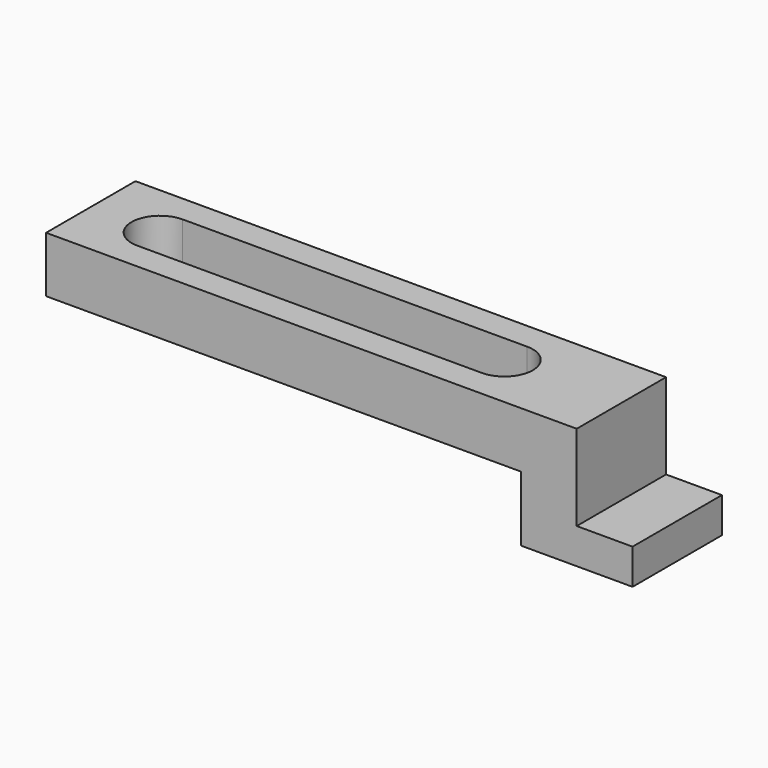
from build123d import *

# Parameters (mm, degrees)
SKETCH_W     = 57
SKETCH_H     = 12
PAD_DEPTH    = 6
BOX_W        = 12
BOX_H        = 12
BOX_DEPTH    = 7
BOX001_W     = 12
BOX001_H     = 6
BOX001_DEPTH = 3.2


with BuildPart() as part:
    # Sketch → Pad (new body)
    with BuildSketch(Plane.XY):
        with Locations((28.5, 6)):
            Rectangle(SKETCH_W, SKETCH_H)
        with BuildLine():
            Line((44.436229, 9.05), (7.436229, 9.05))
            ThreePointArc((7.436229, 9.05), (4.386229, 6), (7.436229, 2.95))
            Line((7.436229, 2.95), (44.436229, 2.95))
            ThreePointArc((44.436229, 2.95), (47.486229, 6), (44.436229, 9.05))
        make_face(mode=Mode.SUBTRACT)
    extrude(amount=PAD_DEPTH)

    # Box → Box (join)
    with BuildSketch(Plane(origin=(51, 0, 0), x_dir=(0, 1, 0), z_dir=(0, 0, -1))):
        with Locations((6, 6)):
            Rectangle(BOX_W, BOX_H)
    extrude(amount=BOX_DEPTH)

    # Box001 → Box001 (cut)
    with BuildSketch(Plane(origin=(57, 0, 0), x_dir=(0, 1, 0), z_dir=(0, 0, -1))):
        with Locations((6, 3)):
            Rectangle(BOX001_W, BOX001_H)
    extrude(amount=BOX001_DEPTH, mode=Mode.SUBTRACT)


solid = part.part
